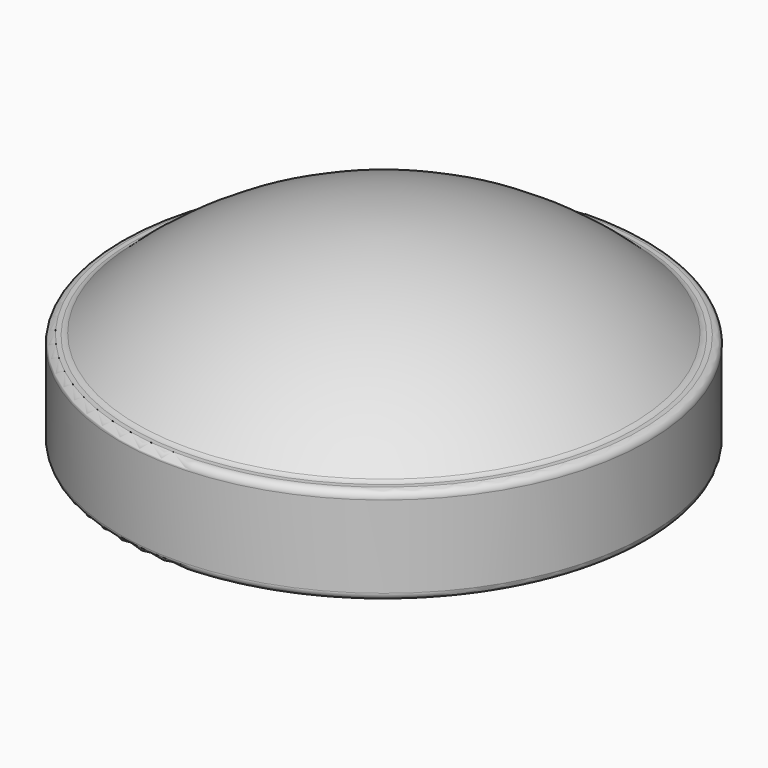
from build123d import *

# Parameters (mm, degrees)
F3_R = 0.8


with BuildPart() as f2:
    # F1 (on Front) → F2 (revolve)
    with BuildSketch(Plane.XZ):
        with BuildLine():
            ThreePointArc((-26.15, 9.35), (-14.132148264, 17.2903393311), (0, 20.0760411253))
            Line((0, 20.0760411253), (0, 21.0760411253))
            ThreePointArc((0, 21.0760411253), (-14.3206366869, 18.2932779844), (-26.5570062743, 10.35))
            Line((-26.5570062743, 10.35), (-28.15, 10.35))
            Line((-28.15, 10.35), (-28.15, 0))
            Line((-28.15, 0), (-26.15, 0))
            Line((-26.15, 0), (-26.15, 1))
            Line((-26.15, 1), (-27.15, 1))
            Line((-27.15, 1), (-27.15, 9.35))
            Line((-27.15, 9.35), (-26.15, 9.35))
        make_face()
    revolve(axis=Axis((0, 0, 13.7808624732), (0, 0, 1)))

    # F3
    f3_edges = [f2.edges().sort_by_distance(p)[0] for p in [
        (28.15, 0, 10.35),
        (28.15, 0, 0),
        (-28.15, 0, 5.175),
        (26.557006, 0, 10.35),
        (-14.320637, 0, 18.293278),
        (27.15, 0, 1),
        (27.15, 0, 9.35),
        (-27.15, 0, 5.175),
    ]]
    fillet(f3_edges, radius=F3_R)


solid = f2.part
